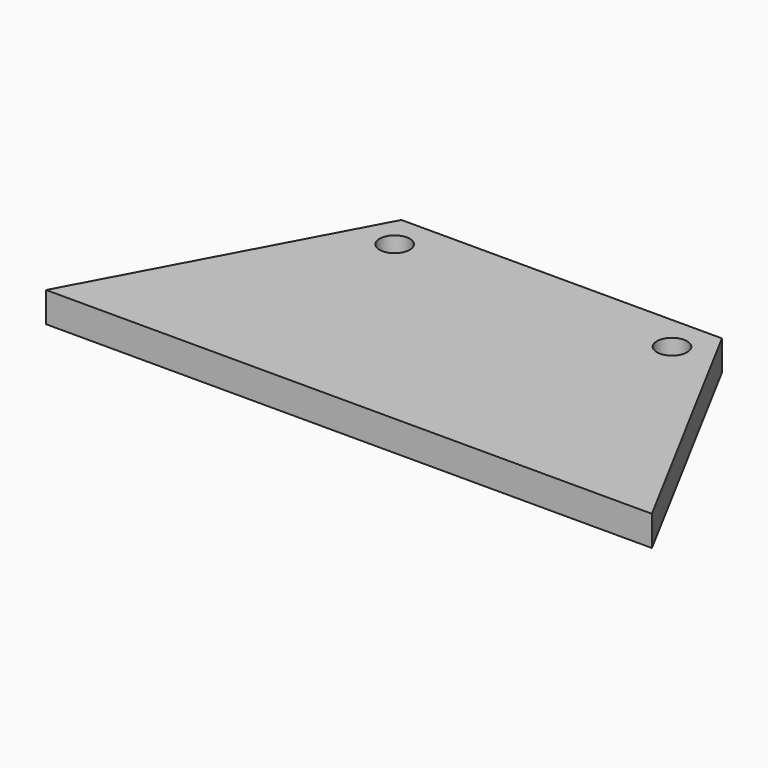
from build123d import *

# Parameters (mm, degrees)
F0_R     = 1.27
F1_DEPTH = 2.54


with BuildPart() as f1:
    # F0 (on Top) → F1 (new body)
    with BuildSketch(Plane.XY):
        Polygon((-9.209902, 16.803956), (-21.220927, -5.576734), (29.786919, -5.576734), (17.775894, 16.803956), align=None)
        with Locations((-7.391335, 13.820616)):
            Circle(F0_R, mode=Mode.SUBTRACT)
        with Locations((15.957327, 13.820616)):
            Circle(F0_R, mode=Mode.SUBTRACT)
    extrude(amount=F1_DEPTH)


solid = f1.part
